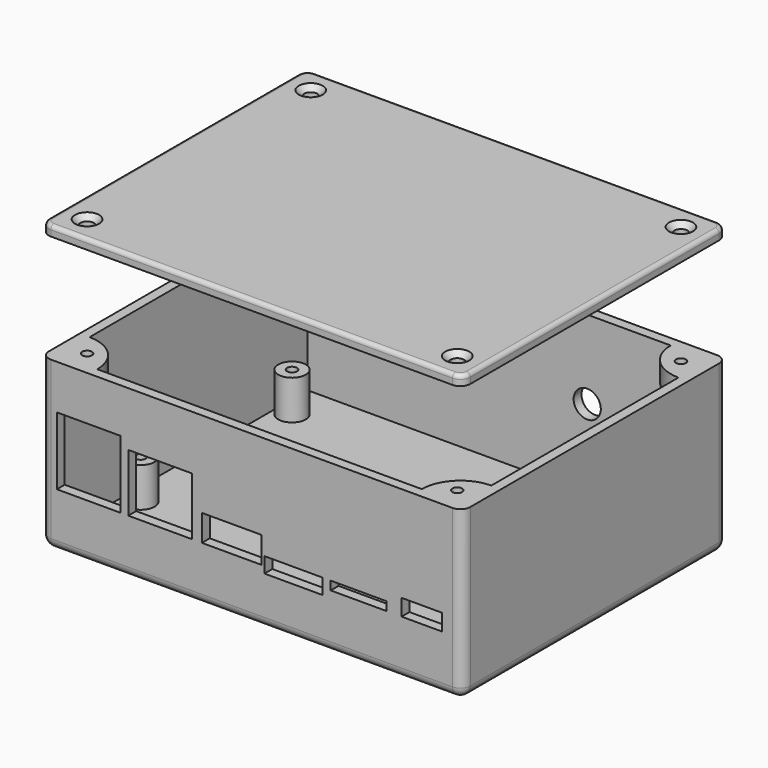
from build123d import *

# Parameters (mm, degrees)
SKETCH_W            = 101.9998
SKETCH_H            = 78.99884
PAD_DEPTH           = 40
THICKNESS_T         = 2.5
SKETCH001_R         = 3.5
PAD001_DEPTH        = 10
POCKET001_DEPTH     = 2.5
PAD002_DEPTH        = 5
SKETCH005_R         = 1.25
HOLE_DEPTH          = 10
HOLE_TIPS_R         = 1.25
SKETCH009_R         = 3.45
HOLE002_DEPTH       = 25
HOLE002_TIPS_R      = 3.45
SKETCH002_R         = 1.25
HOLE003_DEPTH       = 8
HOLE003_TIPS_R      = 1.25
PAD003_DEPTH        = 2.5
PAD004_DEPTH        = 3.5
HOLE001_D           = 3.4
HOLE001_DEPTH       = 2.5
HOLE001_CSINK_D     = 6.1
HOLE001_CSINK_ANGLE = 90
HOLE001_TIPS_R      = 1.7
FILLET_R            = 1


with BuildPart() as body_bottom:
    # Sketch → Pad (new body)
    with BuildSketch(Plane.XY):
        with Locations((49.9999, 38.49942)):
            Rectangle(SKETCH_W, SKETCH_H)
    extrude(amount=PAD_DEPTH)

    # Thickness
    thickness_openings = [body_bottom.faces().sort_by_distance(p)[0] for p in [
        (49.9999, 38.49942, 40),
    ]]
    offset(amount=THICKNESS_T, openings=thickness_openings)

    # Sketch001 (on Face5 of Thickness) → Pad001 (join)
    with BuildSketch(Plane.XY):
        with Locations((3.048, 68.00088)):
            Circle(SKETCH001_R)
        with Locations((97.028, 68.00088)):
            Circle(SKETCH001_R)
        with Locations((97.028, 19.99996)):
            Circle(SKETCH001_R)
        with Locations((3.048, 19.99996)):
            Circle(SKETCH001_R)
    extrude(amount=PAD001_DEPTH)

    # Sketch003 → Pocket001 (cut)
    with BuildSketch(Plane.XZ.offset(3.5)):
        Polygon((0.536, 28.7), (16.736, 28.7), (16.736, 11.5), (8.636, 11.5), (0.536, 11.5), align=None)
        Polygon((18.6716, 26.2), (34.8716, 26.2), (34.8716, 11.5), (26.7716, 11.5), (18.6716, 11.5), align=None)
        Polygon((37.358, 18.2), (52.558, 18.2), (52.558, 11.5), (44.958, 11.5), (37.358, 11.5), align=None)
        Polygon((53.23789, 13.7), (67.93789, 13.7), (67.93789, 9.8), (60.58789, 9.8), (53.23789, 9.8), align=None)
        Polygon((70.05504, 13.7), (84.25504, 13.7), (84.25504, 11.5), (77.15504, 11.5), (70.05504, 11.5), align=None)
        Polygon((88.0672, 15.7), (98.2672, 15.7), (98.2672, 11.5), (93.1672, 11.5), (88.0672, 11.5), align=None)
    extrude(amount=-POCKET001_DEPTH, mode=Mode.SUBTRACT)

    # Sketch004 (on Face5 of Pocket001) → Pad002 (join)
    with BuildSketch(Plane.XY.offset(40)):
        with BuildLine():
            Line((-1, 77.99884), (8.8, 77.99884))
            ThreePointArc((-1, 68.19884), (5.929646, 71.069194), (8.8, 77.99884))
            Line((-1, 68.19884), (-1, 77.99884))
        make_face()
        with BuildLine():
            Line((-1, -1), (-1, 8.8))
            ThreePointArc((8.8, -1), (5.929646, 5.929646), (-1, 8.8))
            Line((8.8, -1), (-1, -1))
        make_face()
        with BuildLine():
            Line((91.1998, 77.99884), (100.9998, 77.99884))
            Line((100.9998, 77.99884), (100.9998, 68.19884))
            ThreePointArc((91.1998, 77.99884), (94.070154, 71.069194), (100.9998, 68.19884))
        make_face()
        with BuildLine():
            Line((91.1998, -1), (100.9998, -1))
            Line((100.9998, -1), (100.9998, 8.8))
            ThreePointArc((100.9998, 8.8), (94.070154, 5.929646), (91.1998, -1))
        make_face()
    extrude(amount=-PAD002_DEPTH)

    # Sketch005 (on Face17 of Pad002) → Hole (cut)
    with BuildSketch(Plane.XY.offset(40)):
        with Locations((3, 73.99884)):
            Circle(SKETCH005_R)
        with Locations((96.9998, 73.99884)):
            Circle(SKETCH005_R)
        with Locations((96.9998, 3)):
            Circle(SKETCH005_R)
        with Locations((3, 3)):
            Circle(SKETCH005_R)
    extrude(amount=-HOLE_DEPTH, mode=Mode.SUBTRACT)

    # Hole tips → Hole tip 1 section 0
    with BuildSketch(Plane.XY.offset(30), mode=Mode.PRIVATE) as hole_tip_1_s0:
        with Locations((3, 73.99884)):
            Circle(HOLE_TIPS_R)
    loft([hole_tip_1_s0.sketch, Vertex(3, 73.99884, 29.248924)], mode=Mode.SUBTRACT)

    # Hole tips → Hole tip 2 section 0
    with BuildSketch(Plane.XY.offset(30), mode=Mode.PRIVATE) as hole_tip_2_s0:
        with Locations((96.9998, 73.99884)):
            Circle(HOLE_TIPS_R)
    loft([hole_tip_2_s0.sketch, Vertex(96.9998, 73.99884, 29.248924)], mode=Mode.SUBTRACT)

    # Hole tips → Hole tip 3 section 0
    with BuildSketch(Plane.XY.offset(30), mode=Mode.PRIVATE) as hole_tip_3_s0:
        with Locations((96.9998, 3)):
            Circle(HOLE_TIPS_R)
    loft([hole_tip_3_s0.sketch, Vertex(96.9998, 3, 29.248924)], mode=Mode.SUBTRACT)

    # Hole tips → Hole tip 4 section 0
    with BuildSketch(Plane.XY.offset(30), mode=Mode.PRIVATE) as hole_tip_4_s0:
        with Locations((3, 3)):
            Circle(HOLE_TIPS_R)
    loft([hole_tip_4_s0.sketch, Vertex(3, 3, 29.248924)], mode=Mode.SUBTRACT)

    # Sketch009 (on Face24 of Hole) → Hole002 (cut)
    with BuildSketch(Plane(origin=(0, 80.49884, 0), x_dir=(-1, 0, 0), z_dir=(0, 1, 0))):
        with Locations((-69.9999, 20)):
            Circle(SKETCH009_R)
        with Locations((-29.9999, 20)):
            Circle(SKETCH009_R)
    extrude(amount=-HOLE002_DEPTH, mode=Mode.SUBTRACT)

    # Hole002 tips → Hole002 tip 1 section 0
    with BuildSketch(Plane(origin=(0, 55.49884, 0), x_dir=(-1, 0, 0), z_dir=(0, 1, 0)), mode=Mode.PRIVATE) as hole002_tip_1_s0:
        with Locations((-69.9999, 20)):
            Circle(HOLE002_TIPS_R)
    loft([hole002_tip_1_s0.sketch, Vertex(69.9999, 53.425871, 20)], mode=Mode.SUBTRACT)

    # Hole002 tips → Hole002 tip 2 section 0
    with BuildSketch(Plane(origin=(0, 55.49884, 0), x_dir=(-1, 0, 0), z_dir=(0, 1, 0)), mode=Mode.PRIVATE) as hole002_tip_2_s0:
        with Locations((-29.9999, 20)):
            Circle(HOLE002_TIPS_R)
    loft([hole002_tip_2_s0.sketch, Vertex(29.9999, 53.425871, 20)], mode=Mode.SUBTRACT)

    # Sketch002 (on Face19 of Pad001) → Hole003 (cut)
    with BuildSketch(Plane.XY.offset(10)):
        with Locations((3.048, 68.00088)):
            Circle(SKETCH002_R)
        with Locations((97.028, 68.00088)):
            Circle(SKETCH002_R)
        with Locations((97.028, 19.99996)):
            Circle(SKETCH002_R)
        with Locations((3.048, 19.99996)):
            Circle(SKETCH002_R)
    extrude(amount=-HOLE003_DEPTH, mode=Mode.SUBTRACT)

    # Hole003 tips → Hole003 tip 1 section 0
    with BuildSketch(Plane.XY.offset(2), mode=Mode.PRIVATE) as hole003_tip_1_s0:
        with Locations((3.048, 68.00088)):
            Circle(HOLE003_TIPS_R)
    loft([hole003_tip_1_s0.sketch, Vertex(3.048, 68.00088, 1.248924)], mode=Mode.SUBTRACT)

    # Hole003 tips → Hole003 tip 2 section 0
    with BuildSketch(Plane.XY.offset(2), mode=Mode.PRIVATE) as hole003_tip_2_s0:
        with Locations((97.028, 68.00088)):
            Circle(HOLE003_TIPS_R)
    loft([hole003_tip_2_s0.sketch, Vertex(97.028, 68.00088, 1.248924)], mode=Mode.SUBTRACT)

    # Hole003 tips → Hole003 tip 3 section 0
    with BuildSketch(Plane.XY.offset(2), mode=Mode.PRIVATE) as hole003_tip_3_s0:
        with Locations((97.028, 19.99996)):
            Circle(HOLE003_TIPS_R)
    loft([hole003_tip_3_s0.sketch, Vertex(97.028, 19.99996, 1.248924)], mode=Mode.SUBTRACT)

    # Hole003 tips → Hole003 tip 4 section 0
    with BuildSketch(Plane.XY.offset(2), mode=Mode.PRIVATE) as hole003_tip_4_s0:
        with Locations((3.048, 19.99996)):
            Circle(HOLE003_TIPS_R)
    loft([hole003_tip_4_s0.sketch, Vertex(3.048, 19.99996, 1.248924)], mode=Mode.SUBTRACT)


with BuildPart() as body_lid:
    # Sketch006 → Pad003 (new body)
    with BuildSketch(Plane.XY.offset(70)):
        with BuildLine():
            Line((-1, 80.49884), (100.9998, 80.49884))
            ThreePointArc((103.4998, 77.99884), (102.767567, 79.766607), (100.9998, 80.49884))
            Line((103.4998, 77.99884), (103.4998, -1))
            ThreePointArc((100.9998, -3.5), (102.767567, -2.767767), (103.4998, -1))
            Line((100.9998, -3.5), (-1, -3.5))
            ThreePointArc((-3.5, -1), (-2.767767, -2.767767), (-1, -3.5))
            Line((-3.5, -1), (-3.5, 77.99884))
            ThreePointArc((-1, 80.49884), (-2.767767, 79.766607), (-3.5, 77.99884))
        make_face()
    extrude(amount=-PAD003_DEPTH)

    # Sketch007 (on Face9 of Pad003) → Pad004 (join)
    with BuildSketch(Plane.XY.offset(70)):
        with BuildLine():
            Line((8.8, 77.99884), (91.1998, 77.99884))
            ThreePointArc((91.1998, 77.99884), (94.070154, 71.069194), (100.9998, 68.19884))
            Line((100.9998, 68.19884), (100.9998, 8.8))
            ThreePointArc((100.9998, 8.8), (94.070154, 5.929646), (91.1998, -1))
            Line((91.1998, -1), (8.8, -1))
            ThreePointArc((8.8, -1), (5.929646, 5.929646), (-1, 8.8))
            Line((-1, 8.8), (-1, 68.19884))
            ThreePointArc((-1, 68.19884), (5.929646, 71.069194), (8.8, 77.99884))
        make_face()
    extrude(amount=-PAD004_DEPTH)

    # Hole001
    with Locations(Plane.XY.offset(70)):
        with Locations((96.9998, 3), (3, 3), (3, 73.99884), (96.9998, 73.99884)):
            CounterSinkHole(HOLE001_D / 2, HOLE001_CSINK_D / 2, depth=HOLE001_DEPTH, counter_sink_angle=HOLE001_CSINK_ANGLE)

    # Hole001 tips → Hole001 tip 1 section 0
    with BuildSketch(Plane.XY.offset(67.5), mode=Mode.PRIVATE) as hole001_tip_1_s0:
        with Locations((96.9998, 3)):
            Circle(HOLE001_TIPS_R)
    loft([hole001_tip_1_s0.sketch, Vertex(96.9998, 3, 66.478537)], mode=Mode.SUBTRACT)

    # Hole001 tips → Hole001 tip 2 section 0
    with BuildSketch(Plane.XY.offset(67.5), mode=Mode.PRIVATE) as hole001_tip_2_s0:
        with Locations((3, 3)):
            Circle(HOLE001_TIPS_R)
    loft([hole001_tip_2_s0.sketch, Vertex(3, 3, 66.478537)], mode=Mode.SUBTRACT)

    # Hole001 tips → Hole001 tip 3 section 0
    with BuildSketch(Plane.XY.offset(67.5), mode=Mode.PRIVATE) as hole001_tip_3_s0:
        with Locations((3, 73.99884)):
            Circle(HOLE001_TIPS_R)
    loft([hole001_tip_3_s0.sketch, Vertex(3, 73.99884, 66.478537)], mode=Mode.SUBTRACT)

    # Hole001 tips → Hole001 tip 4 section 0
    with BuildSketch(Plane.XY.offset(67.5), mode=Mode.PRIVATE) as hole001_tip_4_s0:
        with Locations((96.9998, 73.99884)):
            Circle(HOLE001_TIPS_R)
    loft([hole001_tip_4_s0.sketch, Vertex(96.9998, 73.99884, 66.478537)], mode=Mode.SUBTRACT)

    # Fillet
    fillet_edges = [body_lid.edges().sort_by_distance(p)[0] for p in [
        (-3.5, 38.49942, 70),
        (-2.767767, -2.767767, 70),
        (49.9999, -3.5, 70),
        (102.767567, -2.767767, 70),
        (103.4998, 38.49942, 70),
        (102.767567, 79.766607, 70),
        (49.9999, 80.49884, 70),
        (-2.767767, 79.766607, 70),
    ]]
    fillet(fillet_edges, radius=FILLET_R)


solid = Compound([body_bottom.part, body_lid.part])
